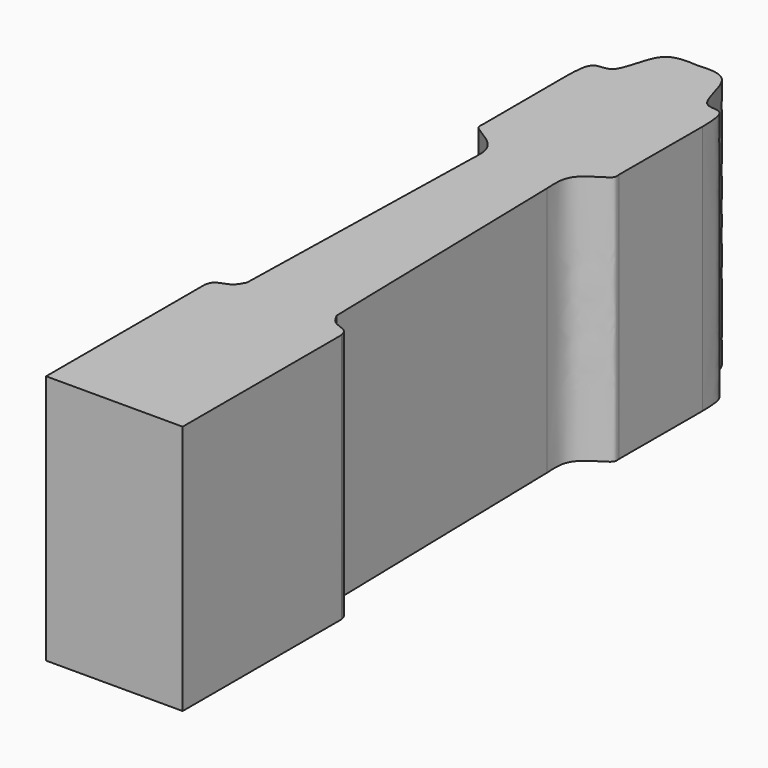
from build123d import *

# Parameters (mm, degrees)
F1_DEPTH = 69.85


with BuildPart() as f1:
    # F0 (on Top) → F1 (new body)
    with BuildSketch(Plane.XY):
        with BuildLine():
            Line((-170.0593680143, -109.9090093908), (-170.0593680143, 93.2909906092))
            add(Edge.make_bspline(
                [(-170.0593680143, 93.2909906092), (-173.3809433992, 93.4893780117), (-180.5533749605, 93.9177651177), (-181.4297036575, 78.3114579023), (-188.9363211533, 80.7316417739), (-189.0462275648, 74.7521882512), (-189.1093680143, 71.3170348468)],
                knots=[0, 0, 0, 0, 0.2616858717, 0.5650704223, 0.7501360595, 1, 1, 1, 1], degree=3))
            Line((-189.1093680143, 71.3170348468), (-189.0462275648, 42.2879379097))
            add(Edge.make_bspline(
                [(-189.0462275648, 42.2879379097), (-189.1093680143, 41.6758461657), (-189.400524111, 40.3558724739), (-184.4886417334, 37.953212033), (-180.4366210997, 34.1079917515), (-180.7132006893, 29.8440455718), (-180.8425544322, 27.5751306477)],
                knots=[0, 0, 0, 0, 0.1517638671, 0.418810967, 0.6989725895, 1, 1, 1, 1], degree=3))
            Line((-180.8425544322, 27.5751306477), (-182.5495680645, -48.0135863068))
            add(Edge.make_bspline(
                [(-182.5495680645, -48.0135863068), (-183.1046113698, -49.094809106), (-184.2303701418, -51.2877840311), (-188.4588641699, -51.9445316041), (-188.9092677465, -53.7572939542), (-189.1093680143, -54.5626477537)],
                knots=[0, 0, 0, 0, 0.3508476752, 0.7116018594, 1, 1, 1, 1], degree=3))
            Line((-189.1093680143, -54.5626477537), (-189.1093680143, -109.9090093908))
            Line((-189.1093680143, -109.9090093908), (-170.0593680143, -109.9090093908))
        make_face()
        with BuildLine():
            add(Edge.make_bspline(
                [(-170.0593680143, 93.2909906092), (-166.7377926295, 93.4893780117), (-159.5653610682, 93.9177651177), (-158.6890323711, 78.3114579023), (-151.1824148754, 80.7316417739), (-151.0725084639, 74.7521882512), (-151.0093680143, 71.3170348468)],
                knots=[0, 0, 0, 0, 0.2616858717, 0.5650704223, 0.7501360595, 1, 1, 1, 1], degree=3))
            Line((-170.0593680143, 93.2909906092), (-170.0593680143, -109.9090093908))
            Line((-170.0593680143, -109.9090093908), (-151.0093680143, -109.9090093908))
            Line((-151.0093680143, -109.9090093908), (-151.0093680143, -54.5626477537))
            add(Edge.make_bspline(
                [(-157.5691679641, -48.0135863068), (-157.0141246589, -49.094809106), (-155.8883658868, -51.2877840311), (-151.6598718588, -51.9445316041), (-151.2094682821, -53.7572939542), (-151.0093680143, -54.5626477537)],
                knots=[0, 0, 0, 0, 0.3508476752, 0.7116018594, 1, 1, 1, 1], degree=3))
            Line((-157.5691679641, -48.0135863068), (-159.2761815965, 27.5751306477))
            add(Edge.make_bspline(
                [(-151.0725084639, 42.2879379097), (-151.0093680143, 41.6758461657), (-150.7182119177, 40.3558724739), (-155.6300942953, 37.953212033), (-159.682114929, 34.1079917515), (-159.4055353393, 29.8440455718), (-159.2761815965, 27.5751306477)],
                knots=[0, 0, 0, 0, 0.1517638671, 0.418810967, 0.6989725895, 1, 1, 1, 1], degree=3))
            Line((-151.0725084639, 42.2879379097), (-151.0093680143, 71.3170348468))
        make_face()
    extrude(amount=F1_DEPTH)


with BuildPart() as f2_1:
    # F2: copy of F1
    add(f1.part)


solid = Compound([f1.part, f2_1.part])
